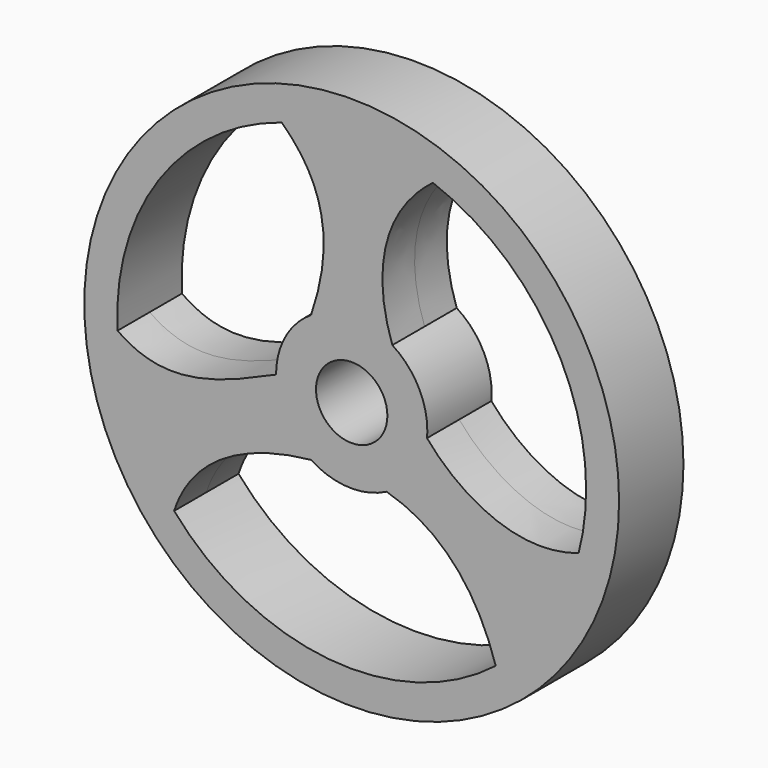
from build123d import *

# Parameters (mm, degrees)
F0_R     = 88.4
F0_R_2   = 85.1
F0_R_3   = 11.8
F1_DEPTH = 13.3


with BuildPart() as f1:
    # F0 (on Front) → F1 (new body, symmetric)
    with BuildSketch(Plane.XZ):
        Circle(F0_R)
        Circle(F0_R_2, mode=Mode.SUBTRACT)
        Circle(F0_R_2)
        with BuildLine():
            ThreePointArc((26.8363371205, 72.7053024886), (63.5848493229, 44.3082039422), (77.5, 0))
            ThreePointArc((77.5, 0), (76.8841029856, -9.7511388105), (75.0462010812, -19.3472918848))
            ThreePointArc((75.0462010812, -19.3472918848), (64.7933181605, -42.5214760063), (47.6129907546, -61.1494326335))
            ThreePointArc((47.6129907546, -61.1494326335), (-7.639961403, -77.1225063763), (-58.6850959098, -50.6192603468))
            ThreePointArc((-58.6850959098, -50.6192603468), (-71.8767007706, -28.9825790145), (-77.3835339837, -4.2471953335))
            ThreePointArc((-77.3835339837, -4.2471953335), (-63.6900602604, 44.1568366624), (-23.1636628795, 73.9573844995))
            ThreePointArc((-23.1636628795, 73.9573844995), (1.9401189037, 77.4757119273), (26.8363371205, 72.7053024886))
        make_face(mode=Mode.SUBTRACT)
        with BuildLine():
            ThreePointArc((25, 0), (21.9208914985, 12.0197552351), (13.442038727, 21.0787000278))
            ThreePointArc((13.442038727, 21.0787000278), (0, 25), (-13.442038727, 21.0787000278))
            ThreePointArc((-13.442038727, 21.0787000278), (-21.9208914985, 12.0197552351), (-25, 0))
            ThreePointArc((-25, 0), (-21.9317121995, -12), (-13.48, -21.0544437115))
            ThreePointArc((-13.48, -21.0544437115), (-1.1319942019, -24.9743586329), (11.52, -22.1876001406))
            ThreePointArc((11.52, -22.1876001406), (20.756181049, -13.9348824272), (24.8974871301, -2.2616663336))
            ThreePointArc((24.8974871301, -2.2616663336), (24.9743586329, -1.1319942019), (25, 0))
        make_face()
        Circle(F0_R_3, mode=Mode.SUBTRACT)
        with BuildLine():
            ThreePointArc((47.6129907546, -61.1494326335), (64.7933181605, -42.5214760063), (75.0462010812, -19.3472918848))
            add(Edge.make_bspline(
                [(24.8974871301, -2.2616663336), (35.3352533593, -14.728449815), (54.834947241, -26.4578113721), (75.0462010812, -19.3472918848)],
                knots=[0, 0, 0, 0, 52.979355521, 52.979355521, 52.979355521, 52.979355521], degree=3))
            ThreePointArc((24.8974871301, -2.2616663336), (20.756181049, -13.9348824272), (11.52, -22.1876001406))
            add(Edge.make_bspline(
                [(11.52, -22.1876001406), (30.0466895523, -27.4240163442), (41.7295582592, -42.082015425), (47.6129907546, -61.1494326335)],
                knots=[0, 0, 0, 0, 53.1105297735, 53.1105297735, 53.1105297735, 53.1105297735], degree=3))
        make_face()
        with BuildLine():
            add(Edge.make_bspline(
                [(-25, 0), (-43.6712764204, -8.3431294188), (-61.3105595112, -15.8235356212), (-77.3835339837, -4.2471953335)],
                knots=[0, 0, 0, 0, 52.5554307452, 52.5554307452, 52.5554307452, 52.5554307452], degree=3))
            ThreePointArc((-77.3835339837, -4.2471953335), (-71.8767007706, -28.9825790145), (-58.6850959098, -50.6192603468))
            add(Edge.make_bspline(
                [(-13.48, -21.0544437115), (-35.2096408606, -23.3037620783), (-52.8361722827, -32.4535444379), (-58.6850959098, -50.6192603468)],
                knots=[0, 0, 0, 0, 54.014619122, 54.014619122, 54.014619122, 54.014619122], degree=3))
            ThreePointArc((-13.48, -21.0544437115), (-21.9317121995, -12), (-25, 0))
        make_face()
        with BuildLine():
            add(Edge.make_bspline(
                [(13.442038727, 21.0787000278), (7.7175249898, 37.1270581078), (7.9083312303, 58.1619627774), (26.8363371205, 72.7053024886)],
                knots=[0, 0, 0, 0, 53.3358538986, 53.3358538986, 53.3358538986, 53.3358538986], degree=3))
            ThreePointArc((26.8363371205, 72.7053024886), (1.9401189037, 77.4757119273), (-23.1636628795, 73.9573844995))
            add(Edge.make_bspline(
                [(-13.442038727, 21.0787000278), (-7.2898711078, 39.0318669379), (-5.9821622724, 58.0931350098), (-23.1636628795, 73.9573844995)],
                knots=[0, 0, 0, 0, 53.764907213, 53.764907213, 53.764907213, 53.764907213], degree=3))
            ThreePointArc((-13.442038727, 21.0787000278), (0, 25), (13.442038727, 21.0787000278))
        make_face()
    extrude(amount=F1_DEPTH, both=True)


solid = f1.part
